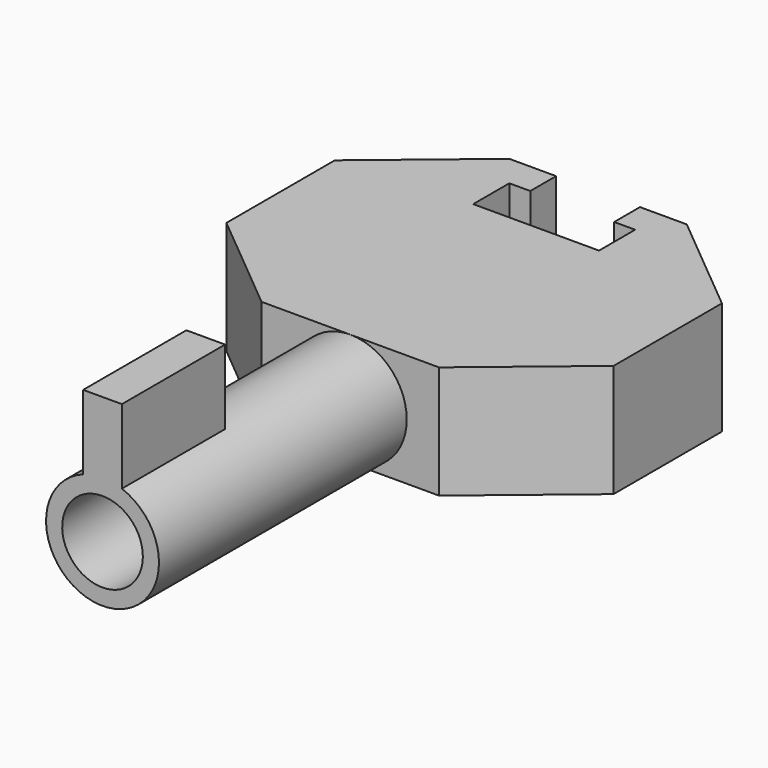
from build123d import *

# Parameters (mm, degrees)
F1_DEPTH      = 3.5
F2_R          = 1.75
F2_R_2        = 1.25
F3_DEPTH      = 9.6
F5_DEPTH      = 3.501
F6_W          = 1.2
F6_H          = 4
F7_DEPTH      = 2.2
F7_DEPTH_BACK = 0.5


with BuildPart() as f1:
    # F0 (on Top) → F1 (new body)
    with BuildSketch(Plane.XY):
        Polygon((0, 2.7), (-5.5, 2.7), (-8.75, 0), (-8.75, -4.2), (-5.5, -6.9), (0, -6.9), (3.25, -4.2), (3.25, 0), align=None)
    extrude(amount=F1_DEPTH)

    # F2 (on face) → F3 (join)
    with BuildSketch(Plane.XZ.offset(6.9)):
        with Locations((-2.75, 1.75)):
            Circle(F2_R)
        with Locations((-2.75, 1.75)):
            Circle(F2_R_2, mode=Mode.SUBTRACT)
    extrude(amount=F3_DEPTH)

    # F4 (on face) → F5 (cut, through all)
    with BuildSketch(Plane.XY.offset(3.5)):
        Polygon((-1.45, 2.7), (-4.05, 2.7), (-4.05, 1.7), (-4.7, 1.7), (-4.7, 0.3), (-0.8, 0.3), (-0.8, 1.7), (-1.45, 1.7), align=None)
    extrude(amount=-F5_DEPTH, mode=Mode.SUBTRACT)

    # F6 (on face) → F7 (join, two sides)
    with BuildSketch(Plane.XY.offset(3.5)) as f7_sk:
        with Locations((-2.75, -14.5)):
            Rectangle(F6_W, F6_H)
    extrude(amount=F7_DEPTH)
    extrude(f7_sk.sketch, amount=-F7_DEPTH_BACK)


solid = f1.part
